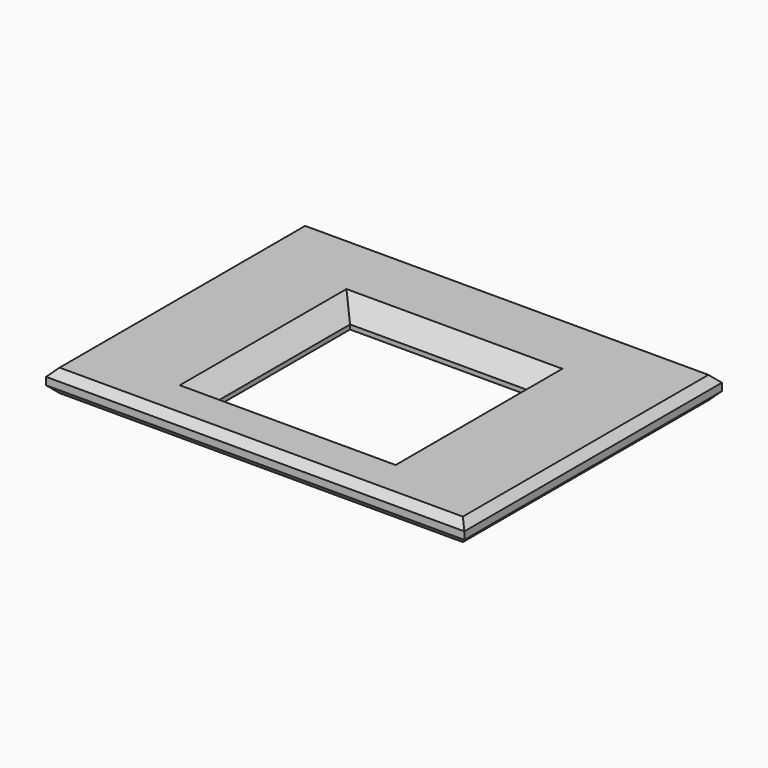
from build123d import *

# Parameters (mm, degrees)
SKETCH006_W     = 55.805504
SKETCH006_H     = 42.953331
SKETCH006_W_2   = 24
SKETCH006_H_2   = 23
PAD003_DEPTH    = 3
CHAMFER001_SIZE = 1
CHAMFER002_SIZE = 2.4


with BuildPart() as part:
    # Sketch006 → Pad003 (new body)
    with BuildSketch(Plane.XY):
        with Locations((1.3612, 4.995676)):
            Rectangle(SKETCH006_W, SKETCH006_H)
        with Locations((1.122957, 3.1348)):
            Rectangle(SKETCH006_W_2, SKETCH006_H_2, mode=Mode.SUBTRACT)
    extrude(amount=PAD003_DEPTH)

    # Chamfer001
    chamfer001_edges = [part.edges().sort_by_distance(p)[0] for p in [
        (1.3612, -16.480989, 3),
        (29.263952, 4.995676, 3),
        (1.3612, 26.472342, 3),
        (-26.541552, 4.995677, 3),
        (1.3612, -16.480989, 0),
        (29.263952, 4.995676, 0),
        (1.3612, 26.472342, 0),
        (-26.541552, 4.995677, 0),
    ]]
    chamfer(chamfer001_edges, length=CHAMFER001_SIZE)

    # Chamfer002
    chamfer002_edges = [part.edges().sort_by_distance(p)[0] for p in [
        (1.122957, 14.6348, 3),
        (13.122957, 3.1348, 3),
        (1.122957, -8.3652, 3),
        (-10.877043, 3.1348, 3),
    ]]
    chamfer(chamfer002_edges, length=CHAMFER002_SIZE)


solid = part.part
